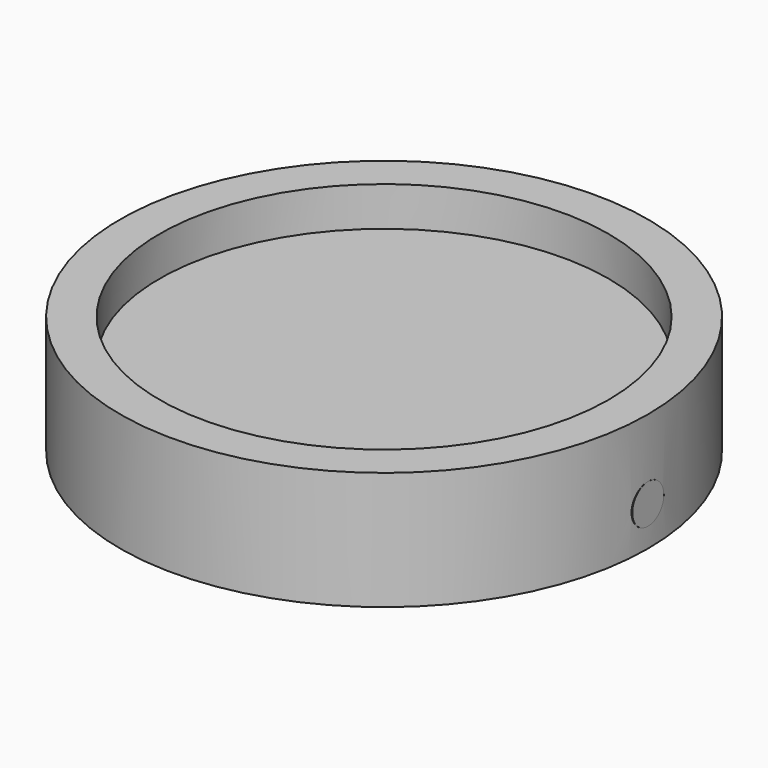
from build123d import *

# Parameters (mm, degrees)
F0_R     = 33.5
F0_R_2   = 28.5
F1_DEPTH = 15
F2_DEPTH = 10
F4_DEPTH = 35
F5_DEPTH = 33.5
F6_DEPTH = 10


with BuildPart() as f1:
    # F0 (on Top) → F1 (new body)
    with BuildSketch(Plane.XY):
        Circle(F0_R)
        Circle(F0_R_2, mode=Mode.SUBTRACT)
    extrude(amount=F1_DEPTH)

    # F0 (on Top) → F2 (join)
    with BuildSketch(Plane.XY):
        Circle(F0_R_2)
    extrude(amount=F2_DEPTH)

    # F3 (on Right) → F4 (cut, symmetric)
    with BuildSketch(Plane.YZ):
        with BuildLine():
            ThreePointArc((0, 2.5), (1.767767, 3.232233), (2.5, 5))
            ThreePointArc((2.5, 5), (-1.767767, 6.767767), (0, 2.5))
        make_face()
    extrude(amount=F4_DEPTH, both=True, mode=Mode.SUBTRACT)

    # F3 (on Right) → F5 (join)
    with BuildSketch(Plane.YZ):
        with BuildLine():
            ThreePointArc((0, 2.5), (1.767767, 3.232233), (2.5, 5))
            ThreePointArc((2.5, 5), (-1.767767, 6.767767), (0, 2.5))
        make_face()
    extrude(amount=F5_DEPTH)

    # F3 (on Right) → F6 (cut)
    with BuildSketch(Plane.YZ):
        with BuildLine():
            ThreePointArc((0, 2.5), (1.767767, 3.232233), (2.5, 5))
            ThreePointArc((2.5, 5), (-1.767767, 6.767767), (0, 2.5))
        make_face()
    extrude(amount=F6_DEPTH, mode=Mode.SUBTRACT)


solid = f1.part
